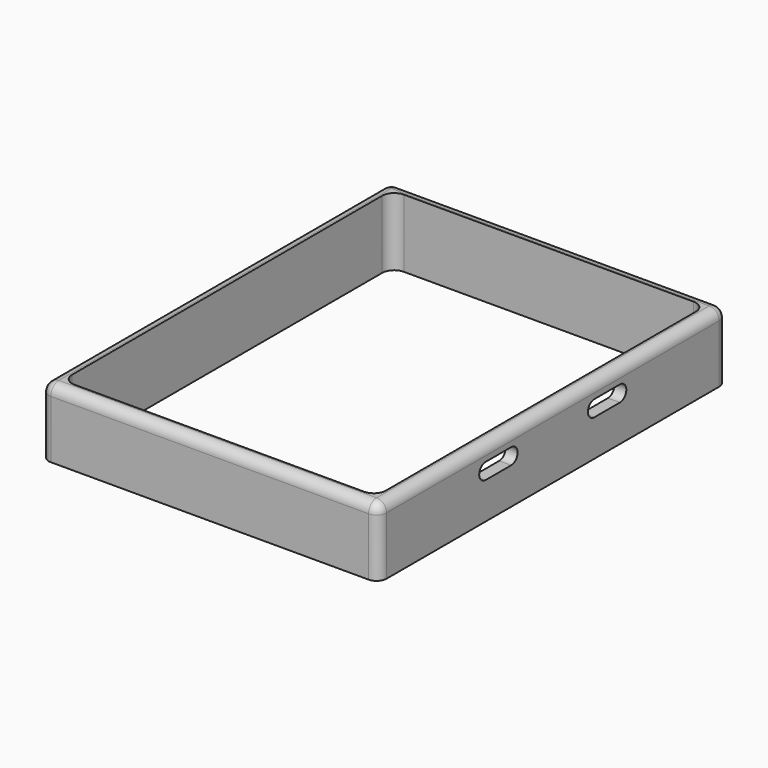
from build123d import *

# Parameters (mm, degrees)
SKETCH010_W     = 84.5
SKETCH010_H     = 109
SKETCH010_W_2   = 78.5
SKETCH010_H_2   = 103
PAD004_DEPTH    = 17
FILLET_R        = 3
FILLET002_R     = 2.5
POCKET025_DEPTH = 9.5


with BuildPart() as part:
    # Sketch010 → Pad004 (new body)
    with BuildSketch(Plane.XY):
        with Locations((4.75, 6.5)):
            Rectangle(SKETCH010_W, SKETCH010_H)
        with Locations((4.75, 6.5)):
            Rectangle(SKETCH010_W_2, SKETCH010_H_2, mode=Mode.SUBTRACT)
    extrude(amount=-PAD004_DEPTH)

    # Fillet
    fillet_edges = [part.edges().sort_by_distance(p)[0] for p in [
        (-34.5, 58, -8.5),
        (-34.5, -45, -8.5),
        (44, 58, -8.5),
        (44, -45, -8.5),
    ]]
    fillet(fillet_edges, radius=FILLET_R)

    # Fillet002
    fillet002_edges = [part.edges().sort_by_distance(p)[0] for p in [
        (47, 61, -8.5),
        (-37.5, 61, -8.5),
        (47, -48, -8.5),
        (-37.5, -48, -8.5),
        (-37.5, 6.5, 0),
        (4.75, -48, 0),
        (47, 6.5, 0),
        (4.75, 61, 0),
    ]]
    fillet(fillet002_edges, radius=FILLET002_R)

    # Sketch058 → Pocket025 (cut, symmetric)
    with BuildSketch(Plane.YZ.offset(41)):
        with BuildLine():
            ThreePointArc((-14.532044, -3.85902), (-16.532044, -5.85902), (-14.532044, -7.85902))
            Line((-14.532044, -7.85902), (-6.532044, -7.85902))
            ThreePointArc((-6.532044, -7.85902), (-4.532044, -5.85902), (-6.532044, -3.85902))
            Line((-6.532044, -3.85902), (-14.532044, -3.85902))
        make_face()
        with BuildLine():
            ThreePointArc((19.467956, -3.85902), (17.467956, -5.85902), (19.467956, -7.85902))
            Line((19.467956, -7.85902), (27.467956, -7.85902))
            ThreePointArc((27.467956, -7.85902), (29.467956, -5.85902), (27.467956, -3.85902))
            Line((27.467956, -3.85902), (19.467956, -3.85902))
        make_face()
    extrude(amount=POCKET025_DEPTH, both=True, mode=Mode.SUBTRACT)


with BuildPart() as part_1:
    # Body005 placement: moved
    add(part.part.moved(Location((0, 0, 4.5))))


solid = part_1.part
